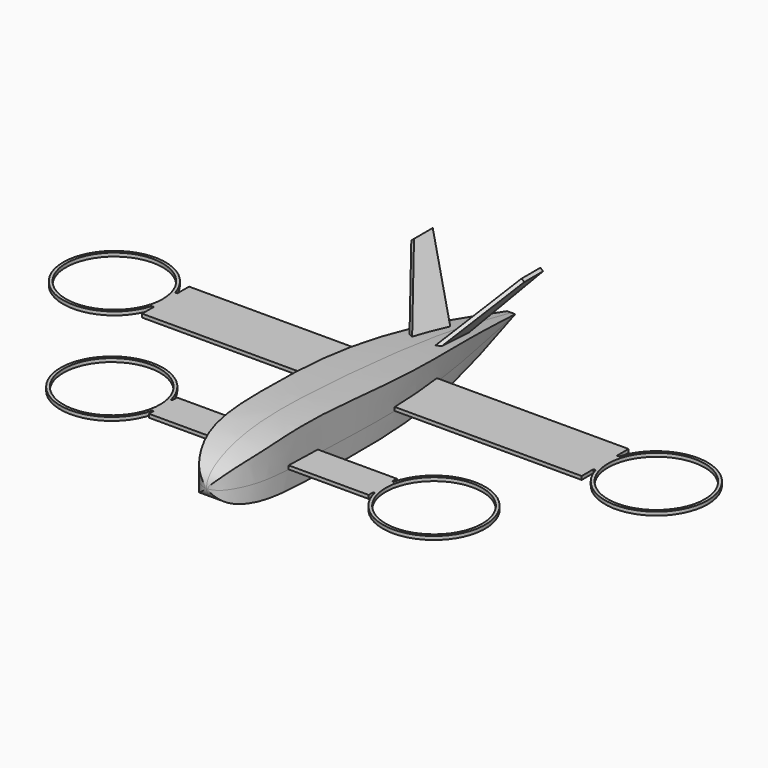
from build123d import *

# Parameters (mm, degrees)
F1_DEPTH  = 12.5
F3_DEPTH  = 50
F4_W      = 12
F4_H      = 1.2
F5_DEPTH  = 37.5
F6_W      = 20
F6_H      = 1.2
F7_DEPTH  = 75
F8_R      = 16.5
F9_DEPTH  = 1.2
F10_R     = 16.5
F11_DEPTH = 1.2
F15_DEPTH = 1.2


with BuildPart() as f1:
    # F0 (on Right) → F1 (new body, symmetric)
    with BuildSketch(Plane.YZ):
        with BuildLine():
            add(Edge.make_bspline(
                [(-56.3139079536, 0), (-56.2993524065, 2.1880892308), (-53.2605600682, 6.2429897929), (-39.8903387078, 10.7236212982), (-15.9422026838, 11.564081978), (37.2025896344, 7.2835532836), (61.281296073, 2.5639474579), (70.1011012224, 0.7411884451), (73.6860920464, 0)],
                knots=[0, 0, 0, 0, 0.0926861682, 0.2255620104, 0.4114131104, 0.6864949828, 0.8726172322, 1, 1, 1, 1], degree=3))
            add(Edge.make_bspline(
                [(-56.3139079536, 0), (-56.2841760592, -1.4090061332), (-53.8190070359, -4.7260477844), (-39.408528359, -6.8398045439), (27.92131829, -6.0089304348), (59.2495048863, -1.8992106403), (73.6860920464, 0)],
                knots=[0, 0, 0, 0, 0.0982439519, 0.2709300513, 0.6651968677, 1, 1, 1, 1], degree=3))
        make_face()
    extrude(amount=F1_DEPTH, both=True)

    # F2 (on Top) → F3 (cut, symmetric)
    with BuildSketch(Plane.XY):
        with BuildLine():
            add(Edge.make_bspline(
                [(0, -56.3936941326), (0.9228792258, -56.2394016414), (4.1107730661, -55.5631168844), (8.9018929918, -46.5928464552), (10.4023245238, -35.1800956114), (10.4528468105, -16.7842845043), (12.7827774112, 21.2636842612), (5.2487232822, 55.2743409574), (1.3810590608, 73.6860920464)],
                knots=[0, 0, 0, 0, 0.0723915477, 0.1900130951, 0.3198550358, 0.4810029474, 0.7157698645, 1, 1, 1, 1], degree=3))
            add(Edge.make_bspline(
                [(0, -56.3936941326), (-0.9228792258, -56.2394016414), (-4.1107730661, -55.5631168844), (-8.9018929918, -46.5928464552), (-10.4023245238, -35.1800956114), (-10.4528468105, -16.7842845043), (-12.7827774112, 21.2636842612), (-5.2487232822, 55.2743409574), (-1.3810590608, 73.6860920464)],
                knots=[0, 0, 0, 0, 0.0723915477, 0.1900130951, 0.3198550358, 0.4810029474, 0.7157698645, 1, 1, 1, 1], degree=3))
            Line((-1.3810590608, 73.6860920464), (-1.3810590608, 75.6908133626))
            Line((-1.3810590608, 75.6908133626), (-14.0328109264, 75.6908133626))
            Line((-14.0328109264, 75.6908133626), (-14.0328109264, -57.7303729951))
            Line((-14.0328109264, -57.7303729951), (14.8478522897, -57.7303729951))
            Line((14.8478522897, -57.7303729951), (14.8478522897, 75.7123529911))
            Line((14.8478522897, 75.7123529911), (1.3551436132, 75.7123529911))
            Line((1.3551436132, 75.7123529911), (1.3810590608, 73.6860920464))
        make_face()
    extrude(amount=F3_DEPTH, both=True, mode=Mode.SUBTRACT)

    # F4 (on Right) → F5 (join, symmetric)
    with BuildSketch(Plane.YZ):
        with Locations((-28, 0.6)):
            Rectangle(F4_W, F4_H)
    extrude(amount=F5_DEPTH, both=True)

    # F6 (on Right) → F7 (join, symmetric)
    with BuildSketch(Plane.YZ):
        with Locations((20, 0.6)):
            Rectangle(F6_W, F6_H)
    extrude(amount=F7_DEPTH, both=True)

    # F8 (on face) → F9 (join)
    with BuildSketch(Plane.XY.offset(1.2)):
        with BuildLine():
            Line((73, 15), (75.7294901688, 15))
            ThreePointArc((75.7294901688, 15), (110, 20), (75.7294901688, 25))
            Line((75.7294901688, 25), (73, 25))
            Line((73, 25), (73, 15))
        make_face()
        with Locations((92.5, 20)):
            Circle(F8_R, mode=Mode.SUBTRACT)
        with BuildLine():
            Line((-75.7294901688, 15), (-73, 15))
            Line((-73, 15), (-73, 25))
            Line((-73, 25), (-75.7294901688, 25))
            ThreePointArc((-75.7294901688, 25), (-110, 20), (-75.7294901688, 15))
        make_face()
        with Locations((-92.5, 20)):
            Circle(F8_R, mode=Mode.SUBTRACT)
    extrude(amount=-F9_DEPTH)

    # F10 (on face) → F11 (join)
    with BuildSketch(Plane.XY.offset(1.2)):
        with BuildLine():
            Line((35.5, -32), (37.9632749626, -32))
            ThreePointArc((37.9632749626, -32), (72.5, -28), (37.9632749626, -24))
            Line((37.9632749626, -24), (35.5, -24))
            Line((35.5, -24), (35.5, -32))
        make_face()
        with Locations((55, -28)):
            Circle(F10_R, mode=Mode.SUBTRACT)
        with BuildLine():
            Line((-37.9632749626, -32), (-35.5, -32))
            Line((-35.5, -32), (-35.5, -24))
            Line((-35.5, -24), (-37.9632749626, -24))
            ThreePointArc((-37.9632749626, -24), (-72.5, -28), (-37.9632749626, -32))
        make_face()
        with Locations((-55, -28)):
            Circle(F10_R, mode=Mode.SUBTRACT)
    extrude(amount=-F11_DEPTH)

    # F14 (on face) → F15 (join)
    with BuildSketch(Plane(origin=(0, 0, 0), x_dir=(0, -1, 0), z_dir=(-0.7660444431, 0, 0.6427876097))):
        Polygon((-48, 0), (-30, 0), (-55.1729889353, 30), (-63.1729889353, 30), align=None)
    extrude(amount=F15_DEPTH)

    # F16: F1 across plane


with BuildPart() as f1_1:
    add(f1.part)
    add(f1.part.mirror(Plane.YZ))


solid = f1_1.part
